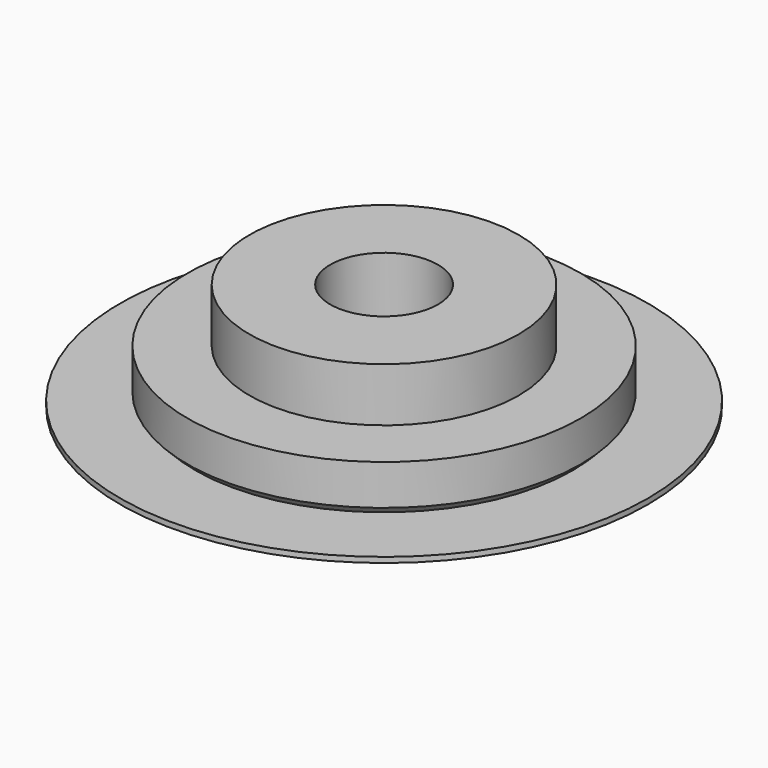
from build123d import *

# Parameters (mm, degrees)
F0_R     = 7.3
F1_DEPTH = 2
F2_R     = 5
F3_DEPTH = 2
F4_SIZE  = 0.5
F5_R     = 2
F6_DEPTH = 4.001
F7_R     = 9.8
F7_R_2   = 6.8
F8_DEPTH = 0.2


with BuildPart() as f1:
    # F0 (on Top) → F1 (new body)
    with BuildSketch(Plane.XY):
        Circle(F0_R)
    extrude(amount=F1_DEPTH)

    # F2 (on face) → F3 (join)
    with BuildSketch(Plane.XY.offset(2)):
        Circle(F2_R)
    extrude(amount=F3_DEPTH)

    # F4
    f4_edges = [f1.edges().sort_by_distance(p)[0] for p in [
        (-7.3, 0, 0),
    ]]
    chamfer(f4_edges, length=F4_SIZE)

    # F5 (on face) → F6 (cut, through all)
    with BuildSketch(Plane(origin=(0, 0, 0), x_dir=(1, 0, 0), z_dir=(0, 0, -1))):
        Circle(F5_R)
    extrude(amount=-F6_DEPTH, mode=Mode.SUBTRACT)

    # F7 (on face) → F8 (join)
    with BuildSketch(Plane(origin=(0, 0, 0), x_dir=(1, 0, 0), z_dir=(0, 0, -1))):
        Circle(F7_R)
        Circle(F7_R_2, mode=Mode.SUBTRACT)
    extrude(amount=-F8_DEPTH)


solid = f1.part
